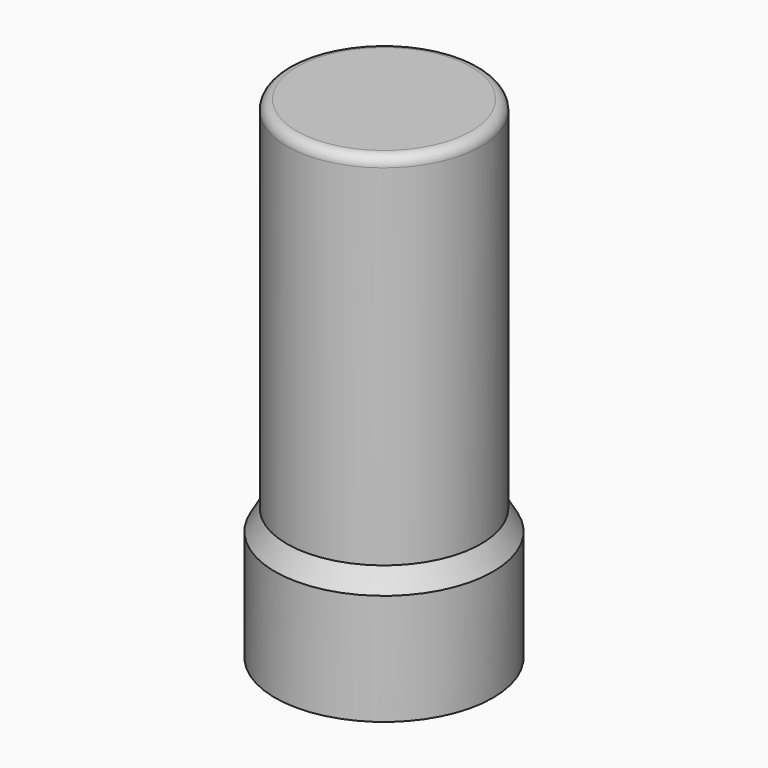
from build123d import *


with BuildPart() as f1:
    # F0 (on Front) → F1 (revolve)
    with BuildSketch(Plane.XZ):
        with BuildLine():
            Line((0, -0.05), (0, 0))
            Line((0, 0), (-2.196, 0))
            ThreePointArc((-2.196, 0), (-2.375605, -0.074395), (-2.45, -0.254))
            Line((-2.45, -0.254), (-2.45, -9.080385))
            Line((-2.45, -9.080385), (-2.75, -9.6))
            Line((-2.75, -9.6), (-2.75, -12.4))
            Line((-2.75, -12.4), (-2.7, -12.4))
            Line((-2.7, -12.4), (-2.7, -9.613397))
            Line((-2.7, -9.613397), (-2.4, -9.093782))
            Line((-2.4, -9.093782), (-2.4, -0.239317))
            ThreePointArc((-2.4, -0.239317), (-2.34455, -0.10545), (-2.210683, -0.05))
            Line((-2.210683, -0.05), (0, -0.05))
        make_face()
    revolve(axis=Axis((0, 0, -6.536065), (0, 0, -1)))


solid = f1.part
